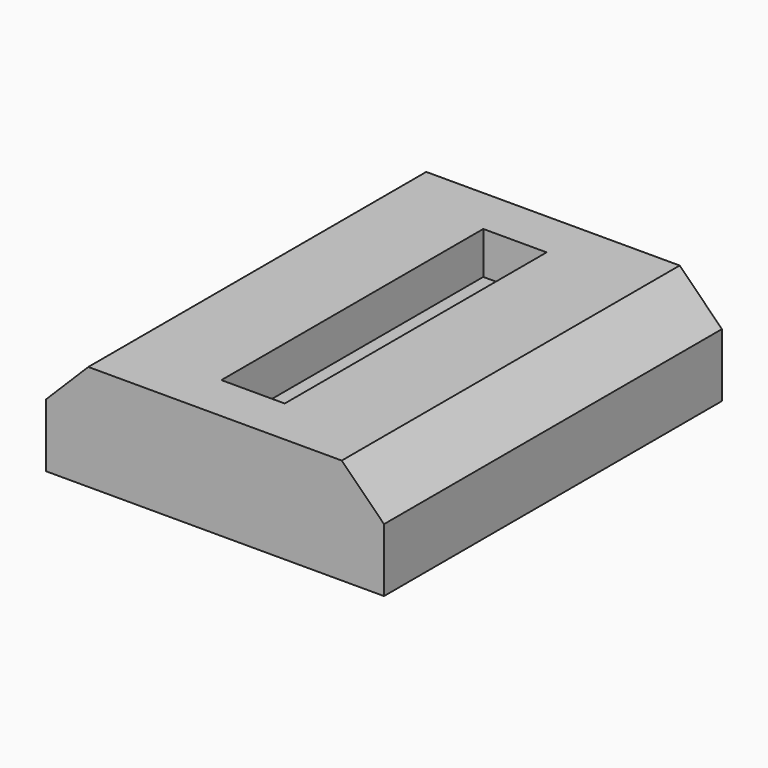
from build123d import *

# Parameters (mm, degrees)
F1_DEPTH = 3
F0_W     = 16
F0_H     = 20
F0_W_2   = 3
F0_H_2   = 15.5
F2_DEPTH = 5
F3_SIZE  = 2


with BuildPart() as f1:
    # F0 (on Top) → F1 (new body)
    with BuildSketch(Plane.XY):
        Polygon((1.5, -7.75), (1.5, 7.75), (-1.5, 7.75), align=None)
        Polygon((1.5, -7.75), (-1.5, 7.75), (-1.5, -7.75), align=None)
    extrude(amount=F1_DEPTH)

    # F0 (on Top) → F2 (join)
    with BuildSketch(Plane.XY):
        Rectangle(F0_W, F0_H)
        Rectangle(F0_W_2, F0_H_2, mode=Mode.SUBTRACT)
    extrude(amount=F2_DEPTH)

    # F3
    f3_edges = [f1.edges().sort_by_distance(p)[0] for p in [
        (8, 0, 5),
        (-8, 0, 5),
    ]]
    chamfer(f3_edges, length=F3_SIZE)


solid = f1.part
